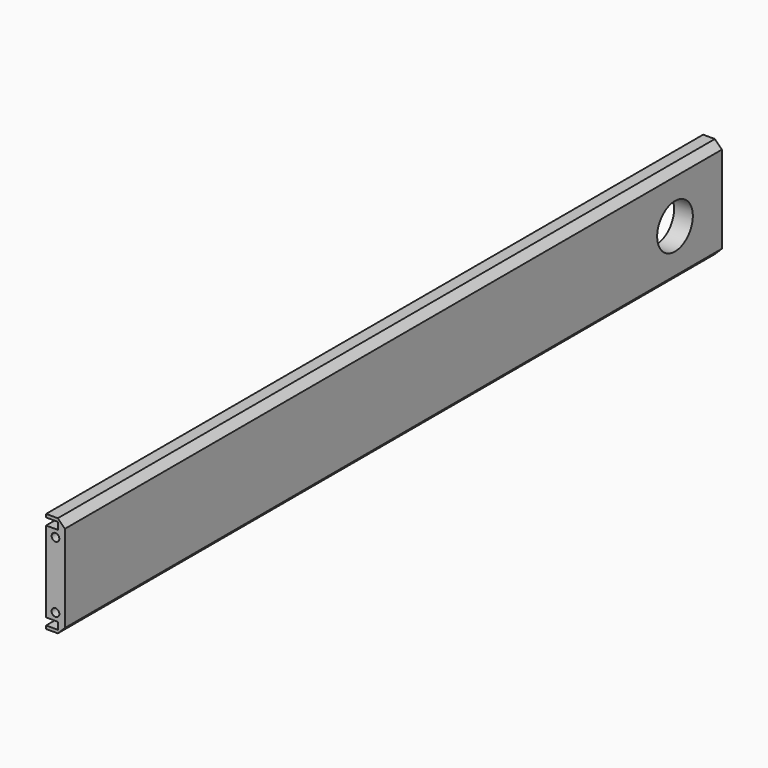
from build123d import *

# Parameters (mm, degrees)
F1_DEPTH = 350
F2_SIZE  = 3
F4_D     = 19
F6_D     = 3.3
F6_DEPTH = 14.1
F6_TIP   = 0.9914200214
F8_D     = 3.3
F8_DEPTH = 14.1
F8_TIP   = 0.9914200214


with BuildPart() as f1:
    # F0 (on Front) → F1 (new body)
    with BuildSketch(Plane.XZ):
        Polygon((2, 17.25), (-3, 17.25), (-3, -17.25), (2, -17.25), (2, -20.25), (-3, -20.25), (-3, -21.6), (5, -21.6), (5, 21.6), (-3, 21.6), (-3, 20.25), (2, 20.25), align=None)
    extrude(amount=F1_DEPTH)

    # F2
    f2_edges = [f1.edges().sort_by_distance(p)[0] for p in [
        (5, -175, -21.6),
        (5, -175, 21.6),
    ]]
    chamfer(f2_edges, length=F2_SIZE)

    # F4 (through all)
    with Locations(Plane.YZ.offset(5)):
        with Locations((-25, 0)):
            Hole(F4_D / 2)

    # F6
    with Locations(Plane(origin=(0, 0, 0), x_dir=(1, 0, 0), z_dir=(0, 1, 0))):
        with Locations((1, -11.28), (1, 11.28)):
            Hole(F6_D / 2, depth=F6_DEPTH)
            with Locations((0, 0, -(F6_DEPTH + F6_TIP / 2))):  # 118° drill point
                Cone(0, F6_D / 2, F6_TIP, mode=Mode.SUBTRACT)

    # F8
    with Locations(Plane.XZ.offset(350)):
        with Locations((1, 14.1), (1, -14.1)):
            Hole(F8_D / 2, depth=F8_DEPTH)
            with Locations((0, 0, -(F8_DEPTH + F8_TIP / 2))):  # 118° drill point
                Cone(0, F8_D / 2, F8_TIP, mode=Mode.SUBTRACT)


solid = f1.part
